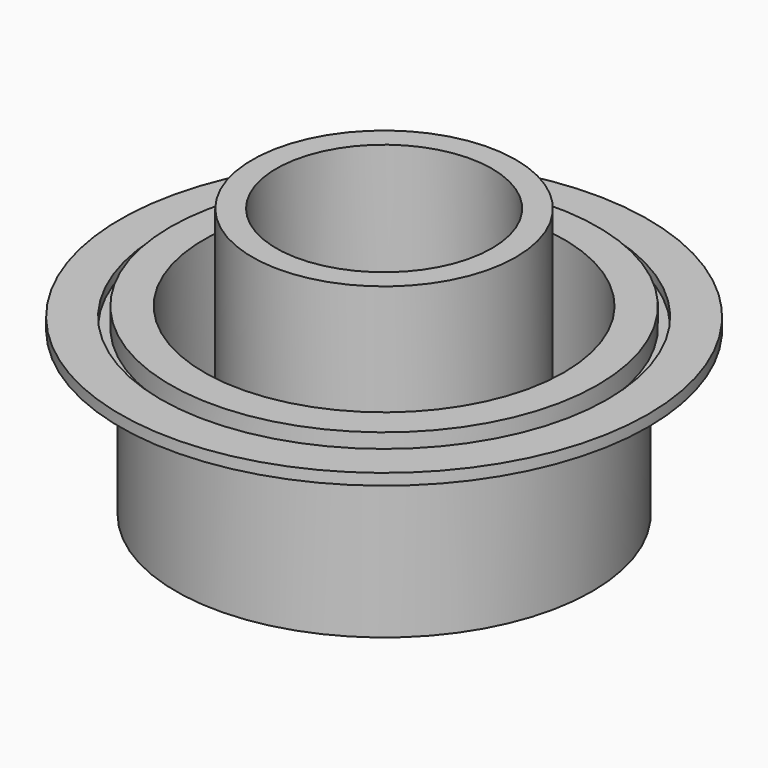
from build123d import *

# Parameters (mm, degrees)
F0_R      = 86.75
F1_DEPTH  = 76.5
F2_R      = 110
F3_DEPTH  = 8.7
F4_R      = 110
F4_R_2    = 93.1
F4_R_3    = 89.1
F5_DEPTH  = 4
F6_R      = 93.1
F6_R_2    = 89.1
F7_DEPTH  = 4
F8_R      = 75
F9_DEPTH  = 73.1
F10_R     = 54.95
F11_DEPTH = 108.85
F12_R     = 44.95
F13_DEPTH = 49.55
F14_R     = 29.95
F15_DEPTH = 20
F16_R     = 25.95
F17_DEPTH = 39.3


with BuildPart() as f1:
    # F0 (on Top) → F1 (new body)
    with BuildSketch(Plane.XY):
        Circle(F0_R)
    extrude(amount=F1_DEPTH)

    # F2 (on face) → F3 (join)
    with BuildSketch(Plane.XY.offset(76.5)):
        Circle(F2_R)
    extrude(amount=-F3_DEPTH)

    # F4 (on face) → F5 (cut)
    with BuildSketch(Plane.XY.offset(76.5)):
        Circle(F4_R)
        Circle(F4_R_2, mode=Mode.SUBTRACT)
        Circle(F4_R_2)
        Circle(F4_R_3, mode=Mode.SUBTRACT)
    extrude(amount=-F5_DEPTH, mode=Mode.SUBTRACT)

    # F6 (on face) → F7 (cut)
    with BuildSketch(Plane.XY.offset(72.5)):
        Circle(F6_R)
        Circle(F6_R_2, mode=Mode.SUBTRACT)
    extrude(amount=-F7_DEPTH, mode=Mode.SUBTRACT)

    # F8 (on face) → F9 (cut)
    with BuildSketch(Plane.XY.offset(76.5)):
        Circle(F8_R)
    extrude(amount=-F9_DEPTH, mode=Mode.SUBTRACT)

    # F10 (on face) → F11 (join)
    with BuildSketch(Plane.XY.offset(3.4)):
        Circle(F10_R)
    extrude(amount=F11_DEPTH)

    # F12 (on face) → F13 (cut)
    with BuildSketch(Plane.XY.offset(112.25)):
        Circle(F12_R)
    extrude(amount=-F13_DEPTH, mode=Mode.SUBTRACT)

    # F14 (on face) → F15 (cut)
    with BuildSketch(Plane.XY.offset(62.7)):
        Circle(F14_R)
    extrude(amount=-F15_DEPTH, mode=Mode.SUBTRACT)

    # F16 (on face) → F17 (cut)
    with BuildSketch(Plane.XY.offset(42.7)):
        Circle(F16_R)
    extrude(amount=-F17_DEPTH, mode=Mode.SUBTRACT)


solid = f1.part
